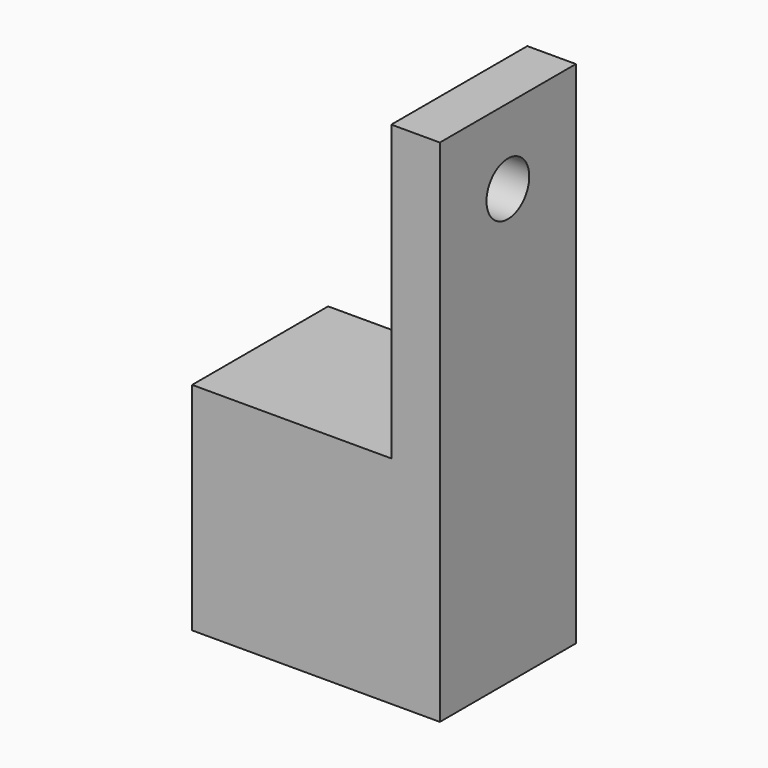
from build123d import *

# Parameters (mm, degrees)
CYLINDER011_R     = 1.1
CYLINDER011_DEPTH = 21
BOX010_W          = 2
BOX010_H          = 7
BOX010_DEPTH      = 21
BOX007_W          = 8.2
BOX007_H          = 7
BOX007_DEPTH      = 8.9


with BuildPart() as cylinder011:
    # Cylinder011 → Cylinder011 (new body)
    with BuildSketch(Plane(origin=(7, 18.5, 71), x_dir=(0, 0, -1), z_dir=(1, 0, 0))):
        Circle(CYLINDER011_R)
    extrude(amount=CYLINDER011_DEPTH)


with BuildPart() as cut005:
    # Box010 → Box010 (new body)
    with BuildSketch(Plane(origin=(12, 15, 53.1), x_dir=(1, 0, 0), z_dir=(0, 0, 1))):
        with Locations((1, 3.5)):
            Rectangle(BOX010_W, BOX010_H)
    extrude(amount=BOX010_DEPTH)

    # Cut005: cut Cylinder011
    add(cylinder011.part, mode=Mode.SUBTRACT)


with BuildPart() as cap:
    # Box007 → Box007 (new body)
    with BuildSketch(Plane(origin=(3.8, 15, 53.1), x_dir=(1, 0, 0), z_dir=(0, 0, 1))):
        with Locations((4.1, 3.5)):
            Rectangle(BOX007_W, BOX007_H)
    extrude(amount=BOX007_DEPTH)

    # Fusion012: union Cut005
    add(cut005.part)


solid = cap.part
